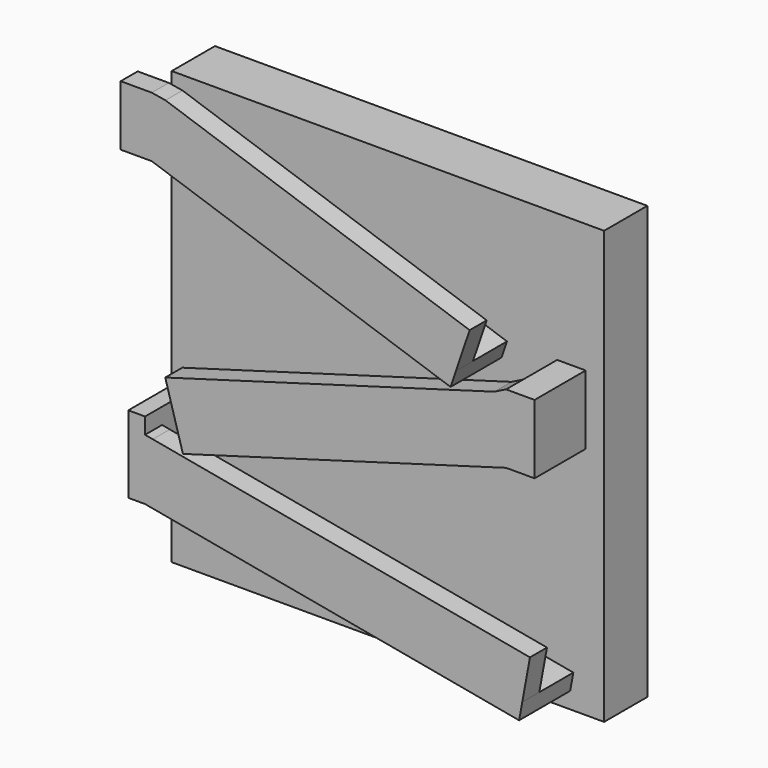
from build123d import *

# Parameters (mm, degrees)
F0_W      = 203.2
F0_H      = 203.2
F1_DEPTH  = 12.7
F3_DEPTH  = 30
F4_W      = 14.6268990993
F4_H      = 10
F5_DEPTH  = 20
F6_W      = 150.9801479243
F6_H      = 10
F7_DEPTH  = 20
F9_DEPTH  = 10
F10_W     = 160.9058431263
F10_H     = 10
F11_DEPTH = 20
F12_W     = 180.2359047158
F12_H     = 10
F13_DEPTH = 20
F15_DEPTH = 10
F17_DEPTH = 10


with BuildPart() as f1:
    # F0 (on Front) → F1 (new body, symmetric)
    with BuildSketch(Plane.XZ):
        Rectangle(F0_W, F0_H)
    extrude(amount=F1_DEPTH, both=True)

    # F2 (on face) → F3 (join)
    with BuildSketch(Plane.XZ.offset(12.7)):
        Polygon((-86.9731009007, 89.6006897092), (-101.6, 89.6006897092), (-101.6, 81.2605177762), (-86.9731009007, 81.2605177762), (53.4253248086, 33.5147284107), (55.9675842524, 40.99034518), align=None)
        Polygon((92.9285819118, 40.99034518), (79.5278856938, 40.99034518), (79.5278856938, 19.016228551), (79.5278856938, 8.5395236786), (92.9285819118, 8.5395236786), align=None)
        Polygon((79.5278856938, 8.5395236786), (79.5278856938, 19.016228551), (-75.126208961, -25.4), (-72.3465969379, -35.0784079816), align=None)
        Polygon((-90.126208961, -25.4), (-98.0089604855, -25.4), (-98.0089604855, -61.6170221653), (-90.126208961, -61.6170221653), (-90.126208961, -53.2994725252), align=None)
        Polygon((-90.126208961, -53.2994725252), (-90.126208961, -61.6170221653), (85.6593027711, -93.9363369431), (87.1385357673, -85.8907539536), align=None)
    extrude(amount=F3_DEPTH)

    # F4 (on face) → F5 (join)
    with BuildSketch(Plane.XY.offset(89.6006897092)):
        with Locations((-94.2865504503, -37.7)):
            Rectangle(F4_W, F4_H)
    extrude(amount=F5_DEPTH)

    # F6 (on face) → F7 (join)
    with BuildSketch(Plane(origin=(18.2964041178, 0, 53.8013166903), x_dir=(0.9467515241, 0, -0.3219651404), z_dir=(0.3219651404, 0, 0.9467515241))):
        with Locations((-35.7001405146, -37.7)):
            Rectangle(F6_W, F6_H)
    extrude(amount=F7_DEPTH)

    # F8 (on face) → F9 (join)
    with BuildSketch(Plane.XZ.offset(42.7)):
        Polygon((-86.9731009007, 109.6006897092), (-86.9731009007, 89.6006897092), (-80.533798092, 108.5357201908), align=None)
    extrude(amount=-F9_DEPTH)

    # F10 (on face) → F11 (join)
    with BuildSketch(Plane(origin=(1.0145486096, 0, -3.532584864), x_dir=(0.9611465417, 0, 0.2760386303), z_dir=(-0.2760386303, 0, 0.9611465417))):
        with Locations((1.234244421, -37.7)):
            Rectangle(F10_W, F10_H)
    extrude(amount=F11_DEPTH)

    # F12 (on face) → F13 (join)
    with BuildSketch(Plane(origin=(-12.4259747266, 0, -67.5851682222), x_dir=(0.9835151604, 0, -0.1808256878), z_dir=(0.1808256878, 0, 0.9835151604))):
        with Locations((11.1153732758, -37.7)):
            Rectangle(F12_W, F12_H)
    extrude(amount=F13_DEPTH)

    # F14 (on face) → F15 (join)
    with BuildSketch(Plane.XZ.offset(42.7)):
        Polygon((74.0071130869, 38.2391593843), (79.5278856938, 19.016228551), (79.5278856938, 40.99034518), align=None)
    extrude(amount=-F15_DEPTH)

    # F16 (on face) → F17 (join)
    with BuildSketch(Plane.XZ.offset(42.7)):
        Polygon((-90.126208961, -32.9642496368), (-90.126208961, -53.2994725252), (-86.5096952059, -33.6291693182), align=None)
    extrude(amount=-F17_DEPTH)


solid = f1.part
